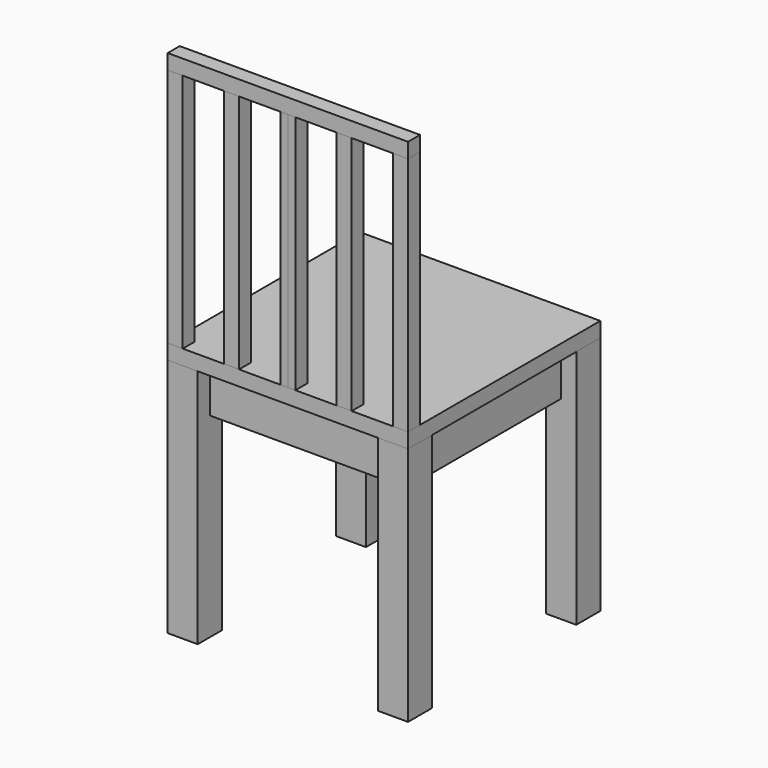
from build123d import *

# Parameters (mm, degrees)
F0_W      = 50.8
F0_H      = 50.8
F1_DEPTH  = 406.4
F2_W      = 406.4
F2_H      = 406.4
F3_DEPTH  = 25.4
F5_DEPTH  = 406.4
F4_W      = 12.7
F4_H      = 12.7
F11_W     = 381
F11_H     = 25.4
F11_W_2   = 25.4
F12_DEPTH = 25.4
F13_W     = 25.4
F13_H     = 77.9108156204
F14_DEPTH = 304.8
F16_W     = 25.4
F16_H     = 76.2
F17_DEPTH = 304.8


with BuildPart() as f1:
    # F0 (on Top) → F1 (new body)
    with BuildSketch(Plane.XY):
        with Locations((25.4, 25.4)):
            Rectangle(F0_W, F0_H)
    extrude(amount=F1_DEPTH)


with BuildPart() as f1b:
    # F0 (on Top) → F1, piece 2 (new body)
    with BuildSketch(Plane.XY):
        with Locations((381, 25.4)):
            Rectangle(F0_W, F0_H)
    extrude(amount=F1_DEPTH)


with BuildPart() as f1c:
    # F0 (on Top) → F1, piece 3 (new body)
    with BuildSketch(Plane.XY):
        with Locations((381, 381)):
            Rectangle(F0_W, F0_H)
    extrude(amount=F1_DEPTH)


with BuildPart() as f1d:
    # F0 (on Top) → F1, piece 4 (new body)
    with BuildSketch(Plane.XY):
        with Locations((25.4, 381)):
            Rectangle(F0_W, F0_H)
    extrude(amount=F1_DEPTH)


with BuildPart() as f3:
    # F2 (on face) → F3 (new body)
    with BuildSketch(Plane.XY.offset(406.4)):
        with Locations((203.2, 203.2)):
            Rectangle(F2_W, F2_H)
    extrude(amount=F3_DEPTH)


with BuildPart() as f5:
    # F4 (on face) → F5 (new body)
    with BuildSketch(Plane.XY.offset(431.8)):
        Polygon((0, 25.4), (0, 0), (25.4, 0), (25.4, 12.7), (25.4, 25.4), align=None)
    extrude(amount=F5_DEPTH)


with BuildPart() as f5b:
    # F4 (on face) → F5, piece 2 (new body)
    with BuildSketch(Plane.XY.offset(431.8)):
        with Locations((114.3, 19.05)):
            Rectangle(F4_W, F4_H)
        Polygon((95.25, 12.7), (95.25, 0), (107.95, 0), (107.95, 12.7), (107.95, 25.4), (95.25, 25.4), align=None)
        with Locations((114.3, 6.35)):
            Rectangle(F4_W, F4_H)
    extrude(amount=F5_DEPTH)


with BuildPart() as f5c:
    # F4 (on face) → F5, piece 3 (new body)
    with BuildSketch(Plane.XY.offset(431.8)):
        Polygon((203.2, 0), (203.2, 25.4), (190.5, 25.4), (190.5, 12.7), (190.5, 0), align=None)
    extrude(amount=F5_DEPTH)


with BuildPart() as f10_1:
    # F10: instance of F5
    add(f5.part.mirror(Plane(origin=(203.2, 0, 431.8), x_dir=(0, 1, 0), z_dir=(1, 0, 0))))


with BuildPart() as f10_2:
    # F10: instance of F5b
    add(f5b.part.mirror(Plane(origin=(203.2, 0, 431.8), x_dir=(0, 1, 0), z_dir=(1, 0, 0))))


with BuildPart() as f10_3:
    # F10: instance of F5c
    add(f5c.part.mirror(Plane(origin=(203.2, 0, 431.8), x_dir=(0, 1, 0), z_dir=(1, 0, 0))))


with BuildPart() as f12:
    # F11 (on face) → F12 (new body)
    with BuildSketch(Plane.XY.offset(838.2)):
        with Locations((190.5, 12.7)):
            Rectangle(F11_W, F11_H)
        with Locations((393.7, 12.7)):
            Rectangle(F11_W_2, F11_H)
    extrude(amount=F12_DEPTH)


with BuildPart() as f14:
    # F13 (on face) → F14 (new body)
    with BuildSketch(Plane(origin=(0, 50.8, 0), x_dir=(-1, 0, 0), z_dir=(0, 1, 0))):
        with Locations((-368.3, 367.4445921898)):
            Rectangle(F13_W, F13_H)
    extrude(amount=F14_DEPTH)


with BuildPart() as f15_1:
    # F15: instance of F14
    add(f14.part.mirror(Plane(origin=(203.2, 0, 431.8), x_dir=(0, 1, 0), z_dir=(1, 0, 0))))


with BuildPart() as f17:
    # F16 (on face) → F17 (new body)
    with BuildSketch(Plane(origin=(355.6, 0, 0), x_dir=(0, -1, 0), z_dir=(-1, 0, 0))):
        with Locations((-368.3, 368.3)):
            Rectangle(F16_W, F16_H)
    extrude(amount=F17_DEPTH)


with BuildPart() as f17b:
    # F16 (on face) → F17, piece 2 (new body)
    with BuildSketch(Plane(origin=(355.6, 0, 0), x_dir=(0, -1, 0), z_dir=(-1, 0, 0))):
        with Locations((-38.1, 368.3)):
            Rectangle(F16_W, F16_H)
    extrude(amount=F17_DEPTH)


solid = Compound([f1.part, f1b.part, f1c.part, f1d.part, f3.part, f5.part, f5b.part, f5c.part, f10_1.part, f10_2.part, f10_3.part, f12.part, f14.part, f15_1.part, f17.part, f17b.part])
